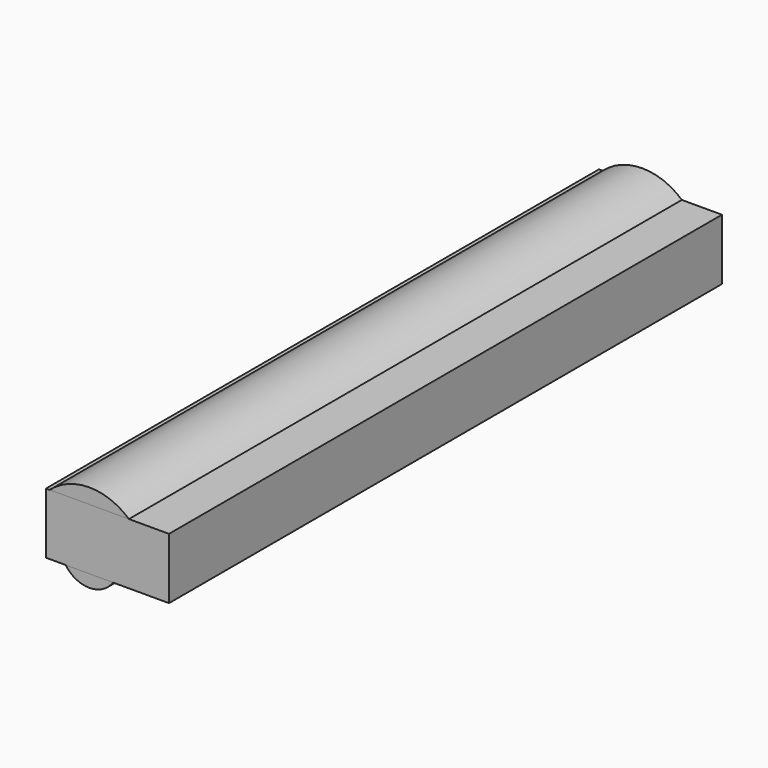
from build123d import *

# Parameters (mm, degrees)
F2_DEPTH = 853.44
F1_R     = 17.7784679127
F1_R_2   = 5.4008341776


with BuildPart() as f2:
    # F1 (on face) → F2 (new body)
    with BuildSketch(Plane.XZ):
        with BuildLine():
            ThreePointArc((48.4309140372, 0), (50.5523481369, 10.0181918325), (51.2640769277, 20.2337726951))
            ThreePointArc((51.2640769277, 20.2337726951), (44.7788719586, 50.4572540277), (26.465064381, 75.3594860435))
            Line((26.465064381, 75.3594860435), (-71.2748453959, 75.3594860435))
            ThreePointArc((-71.2748453959, 75.3594860435), (-73.5996015704, 73.2075239512), (-75.8296921849, 70.9576066263))
            Line((-75.8296921849, 70.9576066263), (-75.8296921849, 0))
            Line((-75.8296921849, 0), (-51.6421061342, 0))
            ThreePointArc((-51.6421061342, 0), (-33.0036053989, 54.1732420152), (13.150985731, 20.2337726951))
            ThreePointArc((13.150985731, 20.2337726951), (11.5345788127, 9.6350578036), (6.8323251193, 0))
            Line((6.8323251193, 0), (48.4309140372, 0))
        make_face()
        with BuildLine():
            Line((-71.2748453959, 75.3594860435), (26.465064381, 75.3594860435))
            ThreePointArc((26.465064381, 75.3594860435), (-22.4048905075, 93.9027401302), (-71.2748453959, 75.3594860435))
        make_face()
    extrude(amount=F2_DEPTH)


with BuildPart() as f2b:
    # F1 (on face) → F2, piece 2 (new body)
    with BuildSketch(Plane.XZ):
        with Locations((-22.4048905075, 20.2337726951)):
            Circle(F1_R)
        with Locations((-22.4048905075, 20.2337726951)):
            Circle(F1_R_2, mode=Mode.SUBTRACT)
        with Locations((-22.4048905075, 20.2337726951)):
            Circle(F1_R_2)
    extrude(amount=F2_DEPTH)


with BuildPart() as f2c:
    # F1 (on face) → F2, piece 3 (new body)
    with BuildSketch(Plane.XZ):
        with BuildLine():
            ThreePointArc((-51.6421061342, 0), (-22.4048905075, -15.3221035433), (6.8323251193, 0))
            Line((6.8323251193, 0), (0, 0))
            Line((0, 0), (-51.6421061342, 0))
        make_face()
    extrude(amount=F2_DEPTH)


with BuildPart() as f2d:
    # F0 (on Front) → F2, piece 4 (new body)
    with BuildSketch(Plane.XZ):
        Polygon((-75.8296921849, 0), (0, 0), (75.9462192655, 0), (75.9462192655, 75.3594860435), (-75.8296921849, 75.3594860435), align=None)
    extrude(amount=F2_DEPTH)


solid = Compound([f2.part, f2b.part, f2c.part, f2d.part])
